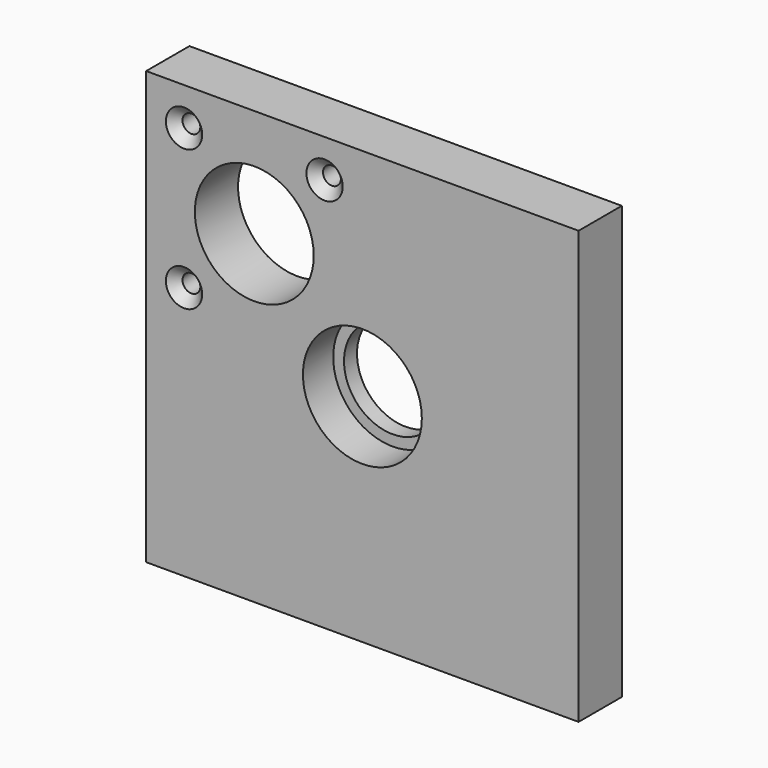
from build123d import *

# Parameters (mm, degrees)
F0_W           = 80
F0_H           = 80
F1_DEPTH       = 10
F3_D           = 3.3
F3_CSINK_D     = 6.72
F3_CSINK_ANGLE = 90
F2_R           = 11
F4_DEPTH       = 10.001
F5_R           = 9
F6_DEPTH       = 10.001
F7_R           = 11
F8_DEPTH       = 7


with BuildPart() as f1:
    # F0 (on Front) → F1 (new body)
    with BuildSketch(Plane.XZ):
        Rectangle(F0_W, F0_H)
    extrude(amount=F1_DEPTH)

    # F3 (through all)
    with Locations(Plane.XZ.offset(10)):
        with Locations((-33, 33), (-7, 33), (-33, 7)):
            CounterSinkHole(F3_D / 2, F3_CSINK_D / 2, counter_sink_angle=F3_CSINK_ANGLE)

    # F2 (on face) → F4 (cut, through all)
    with BuildSketch(Plane.XZ.offset(10)):
        with Locations((-20, 20)):
            Circle(F2_R)
    extrude(amount=-F4_DEPTH, mode=Mode.SUBTRACT)

    # F5 (on face) → F6 (cut, through all)
    with BuildSketch(Plane.XZ.offset(10)):
        Circle(F5_R)
    extrude(amount=-F6_DEPTH, mode=Mode.SUBTRACT)

    # F7 (on face) → F8 (cut)
    with BuildSketch(Plane.XZ.offset(10)):
        Circle(F7_R)
    extrude(amount=-F8_DEPTH, mode=Mode.SUBTRACT)


solid = f1.part
